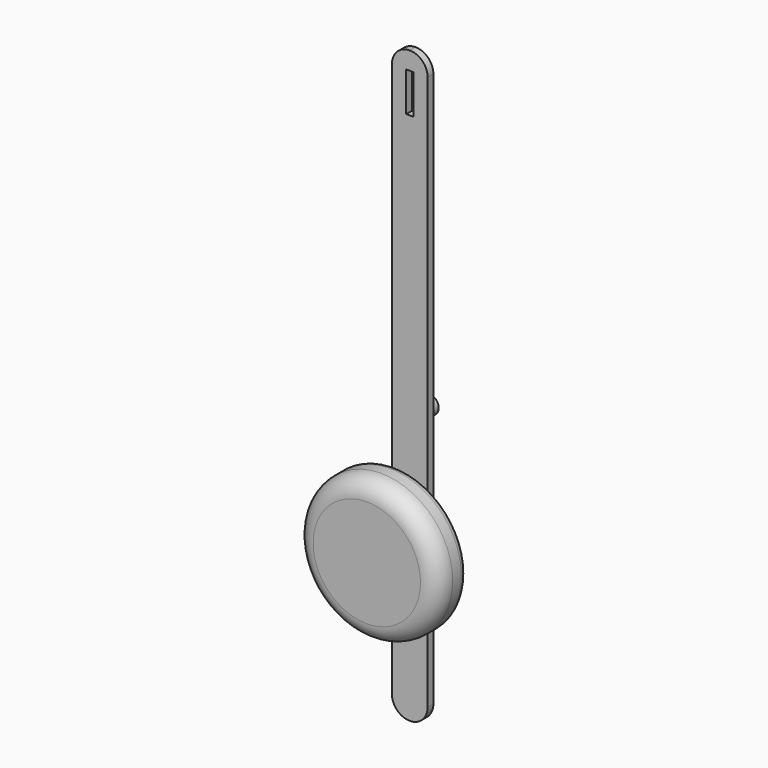
from build123d import *

# Parameters (mm, degrees)
F0_R     = 2.5
F0_W     = 2
F0_H     = 11
F1_DEPTH = 2
F2_DEPTH = 5
F3_R     = 4
F4_DEPTH = 5
F5_R     = 20
F5_R_2   = 4
F6_DEPTH = 10
F7_R     = 5
F8_R     = 2


with BuildPart() as f1:
    # F0 (on Front) → F1 (new body)
    with BuildSketch(Plane.XZ):
        with BuildLine():
            Line((5, -77.5), (5, 77.5))
            ThreePointArc((5, 77.5), (3.535534, 81.035534), (0, 82.5))
            ThreePointArc((0, 82.5), (-3.535534, 81.035534), (-5, 77.5))
            Line((-5, 77.5), (-5, -77.5))
            ThreePointArc((-5, -77.5), (-3.535534, -81.035534), (0, -82.5))
            ThreePointArc((0, -82.5), (3.535534, -81.035534), (5, -77.5))
        make_face()
        with Locations((0, -67.5)):
            Circle(F0_R, mode=Mode.SUBTRACT)
        with Locations((0, -57.5)):
            Circle(F0_R, mode=Mode.SUBTRACT)
        with Locations((0, -17.5)):
            Circle(F0_R, mode=Mode.SUBTRACT)
        with Locations((0, -7.5)):
            Circle(F0_R, mode=Mode.SUBTRACT)
        with Locations((0, 72)):
            Rectangle(F0_W, F0_H, mode=Mode.SUBTRACT)
        with Locations((0, -7.5)):
            Circle(F0_R)
        with Locations((0, -17.5)):
            Circle(F0_R)
        with Locations((0, -57.5)):
            Circle(F0_R)
        with Locations((0, -67.5)):
            Circle(F0_R)
    extrude(amount=F1_DEPTH)

    # F0 (on Front) → F2 (join)
    with BuildSketch(Plane.XZ):
        with Locations((0, -7.5)):
            Circle(F0_R)
        with Locations((0, -57.5)):
            Circle(F0_R)
    extrude(amount=-F2_DEPTH)

    # F3 (on face) → F4 (join)
    with BuildSketch(Plane.XZ.offset(2)):
        with Locations((0, -37.5)):
            Circle(F3_R)
    extrude(amount=F4_DEPTH)

    # F5 (on face) → F6 (join)
    with BuildSketch(Plane.XZ.offset(7)):
        with Locations((0, -37.5)):
            Circle(F5_R)
        with Locations((0, -37.5)):
            Circle(F5_R_2)
    extrude(amount=F6_DEPTH)

    # F7
    f7_edges = [f1.edges().sort_by_distance(p)[0] for p in [
        (-20, -17, -37.5),
    ]]
    fillet(f7_edges, radius=F7_R)

    # F8
    f8_edges = [f1.edges().sort_by_distance(p)[0] for p in [
        (-4, -7, -37.5),
        (-20, -7, -37.5),
    ]]
    fillet(f8_edges, radius=F8_R)


solid = f1.part
